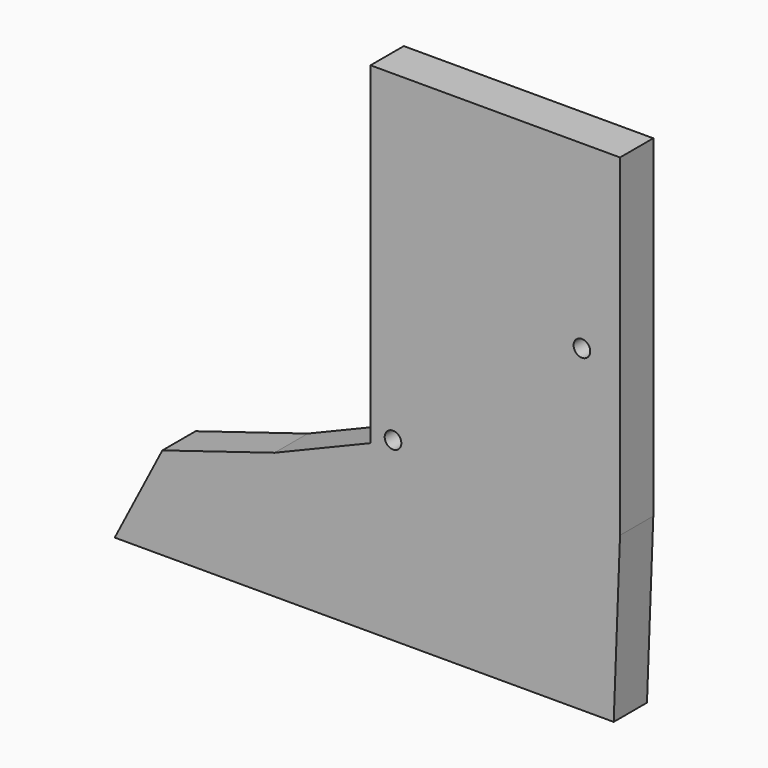
from build123d import *

# Parameters (mm, degrees)
F0_W     = 150
F0_H     = 200
F0_R     = 5
F1_DEPTH = 25


with BuildPart() as f1:
    # F0 (on Front) → F1 (new body)
    with BuildSketch(Plane.XZ):
        with Locations((-25.85324, 64.885747)):
            Rectangle(F0_W, F0_H)
        with Locations((-87.344356, -29.108832)):
            Circle(F0_R, mode=Mode.SUBTRACT)
        with Locations((26.225695, 56.396399)):
            Circle(F0_R, mode=Mode.SUBTRACT)
        Polygon((49.14676, -35.114253), (-100.85324, -35.114253), (-158.585042, -58.980666), (-226.017654, -79.6455), (-254.655804, -135.114253), (45.344196, -135.114253), align=None)
    extrude(amount=F1_DEPTH)


solid = f1.part
